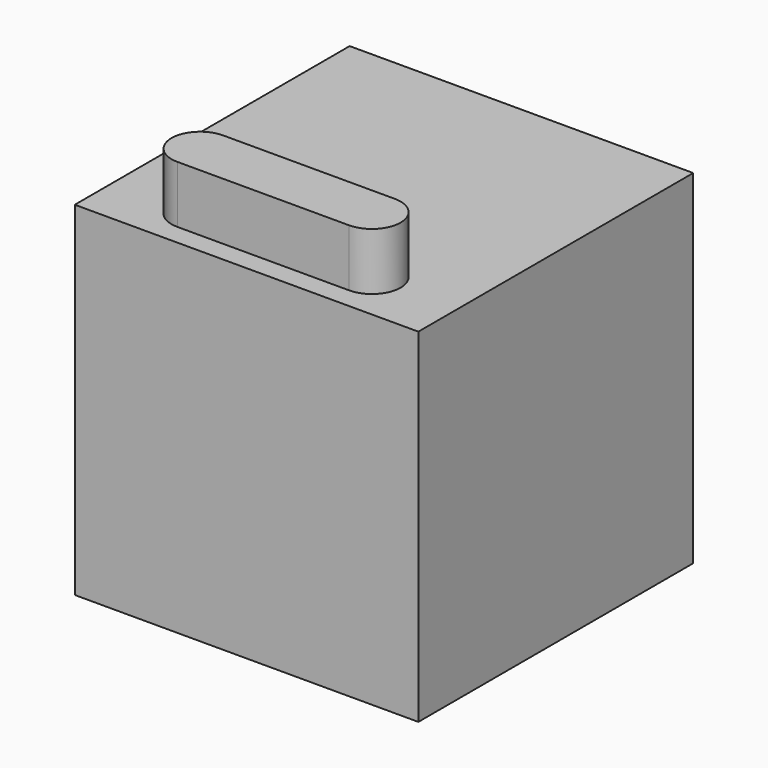
from build123d import *

# Parameters (mm, degrees)
F0_W     = 152.4
F0_H     = 152.4
F1_DEPTH = 152.4
F3_W     = 76.2
F3_H     = 25.4
F4_DEPTH = 25.4


with BuildPart() as f1:
    # F0 (on Top) → F1 (new body)
    with BuildSketch(Plane.XY):
        with Locations((-0.024624, -0.103624)):
            Rectangle(F0_W, F0_H)
    extrude(amount=F1_DEPTH)

    # F3 (on face) → F4 (join)
    with BuildSketch(Plane.XY.offset(152.4)):
        with Locations((-0.024624, -54.399863)):
            Rectangle(F3_W, F3_H)
        with BuildLine():
            ThreePointArc((-38.124624, -41.699863), (-50.824624, -54.399863), (-38.124624, -67.099863))
            Line((-38.124624, -67.099863), (-38.124624, -41.699863))
        make_face()
        with BuildLine():
            Line((38.075376, -41.699863), (38.075376, -67.099863))
            ThreePointArc((38.075376, -67.099863), (50.775376, -54.399863), (38.075376, -41.699863))
        make_face()
    extrude(amount=F4_DEPTH)


solid = f1.part
